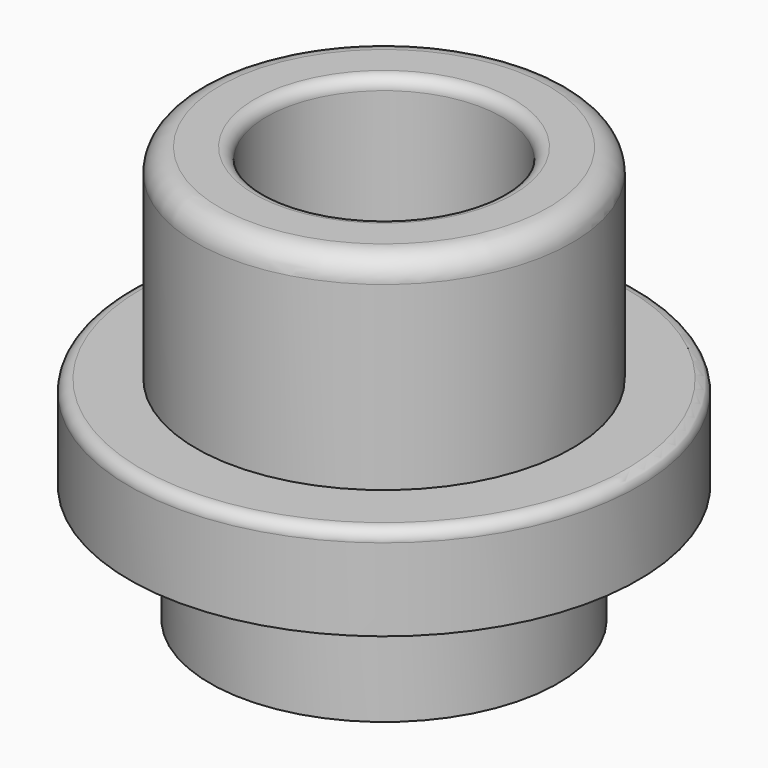
from build123d import *

# Parameters (mm, degrees)
F2_R = 0.25
F3_R = 0.5
F4_R = 0.25


with BuildPart() as f1:
    # F0 (on Right) → F1 (revolve)
    with BuildSketch(Plane.YZ):
        Polygon((4, 6.35), (2.5, 6.35), (2.5, -2.5), (3.7, -2.5), (3.7, 0), (5.42, 0), (5.42, 2), (4, 2), align=None)
    revolve(axis=Axis((0, 0, -1.722812), (0, 0, -1)))

    # F2
    f2_edges = [f1.edges().sort_by_distance(p)[0] for p in [
        (0, -2.5, 6.35),
    ]]
    fillet(f2_edges, radius=F2_R)

    # F3
    f3_edges = [f1.edges().sort_by_distance(p)[0] for p in [
        (0, -4, 6.35),
    ]]
    fillet(f3_edges, radius=F3_R)

    # F4
    f4_edges = [f1.edges().sort_by_distance(p)[0] for p in [
        (0, -5.42, 2),
    ]]
    fillet(f4_edges, radius=F4_R)


solid = f1.part
